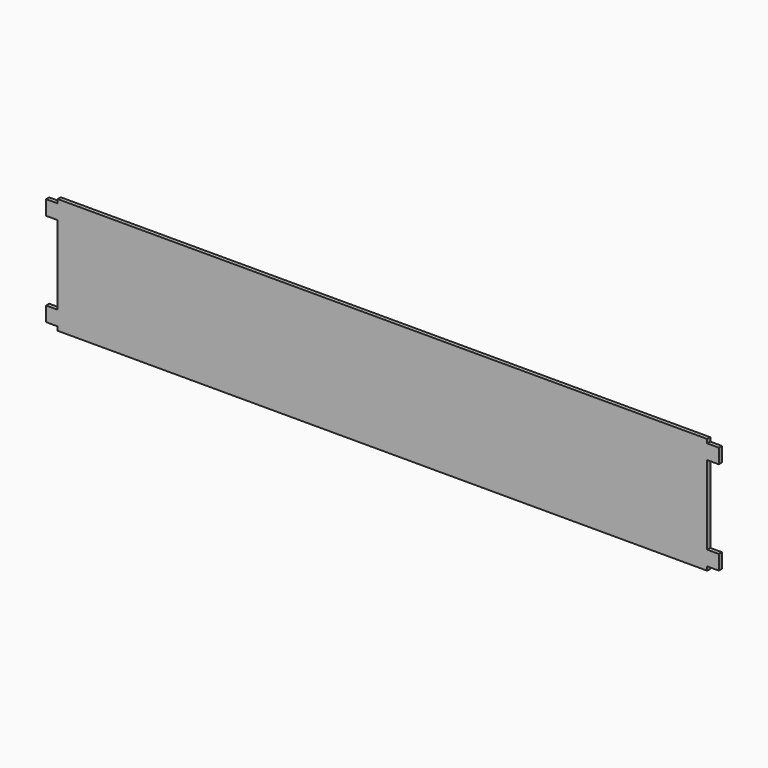
from build123d import *

# Parameters (mm, degrees)
F1_DEPTH = 6.35


with BuildPart() as f1:
    # F0 (on Front) → F1 (new body, symmetric)
    with BuildSketch(Plane.XZ):
        Polygon((0, 190.5), (-1066.8, 190.5), (-1066.8, 177.8), (-1104.9, 177.8), (-1104.9, 129.54), (-1066.8, 129.54), (-1066.8, 0), (-1066.8, -129.54), (-1104.9, -129.54), (-1104.9, -177.8), (-1066.8, -177.8), (-1066.8, -190.5), (0, -190.5), (1066.8, -190.5), (1066.8, -177.8), (1104.9, -177.8), (1104.9, -129.54), (1066.8, -129.54), (1066.8, 0), (1066.8, 129.54), (1104.9, 129.54), (1104.9, 177.8), (1066.8, 177.8), (1066.8, 190.5), align=None)
    extrude(amount=F1_DEPTH, both=True)


solid = f1.part
